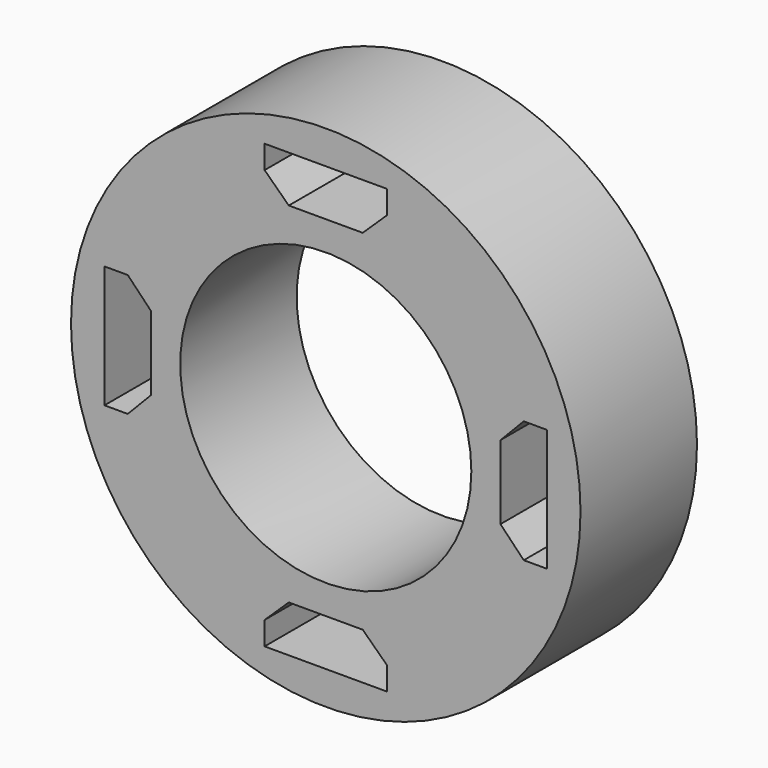
from build123d import *

# Parameters (mm, degrees)
F0_R     = 8.75
F0_R_2   = 5
F1_DEPTH = 5
F0_W     = 0.5
F0_H     = 0.45
F0_W_2   = 0.45
F0_H_2   = 0.5
F2_DEPTH = 1.5


with BuildPart() as f1:
    # F0 (on Front) → F1 (new body)
    with BuildSketch(Plane.XZ):
        Circle(F0_R)
        Polygon((-2.1, -6.8), (-1.27, -6), (1.27, -6), (2.1, -6.8), (2.1, -7.6), (-2.1, -7.6), align=None, mode=Mode.SUBTRACT)
        Polygon((-6.8, 2.1), (-6, 1.27), (-6, -1.27), (-6.8, -2.1), (-7.6, -2.1), (-7.6, 2.1), align=None, mode=Mode.SUBTRACT)
        Circle(F0_R_2, mode=Mode.SUBTRACT)
        Polygon((6.8, -2.1), (6, -1.27), (6, 1.27), (6.8, 2.1), (7.6, 2.1), (7.6, -2.1), align=None, mode=Mode.SUBTRACT)
        Polygon((-2.1, 6.8), (-2.1, 7.6), (2.1, 7.6), (2.1, 6.8), (1.27, 6), (-1.27, 6), align=None, mode=Mode.SUBTRACT)
    extrude(amount=F1_DEPTH)

    # F0 (on Front) → F2 (join)
    with BuildSketch(Plane.XZ):
        Polygon((2.1, 7.6), (-2.1, 7.6), (-2.1, 6.8), (-1.27, 6), (1.27, 6), (2.1, 6.8), align=None)
        with Locations((-1.27, 6.8)):
            Rectangle(F0_W, F0_H, mode=Mode.SUBTRACT)
        with Locations((0, 6.8)):
            Rectangle(F0_W, F0_H, mode=Mode.SUBTRACT)
        with Locations((1.27, 6.8)):
            Rectangle(F0_W, F0_H, mode=Mode.SUBTRACT)
        Polygon((-6, -1.27), (-6, 1.27), (-6.8, 2.1), (-7.6, 2.1), (-7.6, -2.1), (-6.8, -2.1), align=None)
        with Locations((-6.8, -1.27)):
            Rectangle(F0_W_2, F0_H_2, mode=Mode.SUBTRACT)
        with Locations((-6.8, 0)):
            Rectangle(F0_W_2, F0_H_2, mode=Mode.SUBTRACT)
        with Locations((-6.8, 1.27)):
            Rectangle(F0_W_2, F0_H_2, mode=Mode.SUBTRACT)
        Polygon((1.27, -6), (-1.27, -6), (-2.1, -6.8), (-2.1, -7.6), (2.1, -7.6), (2.1, -6.8), align=None)
        with Locations((-1.27, -6.8)):
            Rectangle(F0_W, F0_H, mode=Mode.SUBTRACT)
        with Locations((0, -6.8)):
            Rectangle(F0_W, F0_H, mode=Mode.SUBTRACT)
        with Locations((1.27, -6.8)):
            Rectangle(F0_W, F0_H, mode=Mode.SUBTRACT)
        Polygon((6, 1.27), (6, -1.27), (6.8, -2.1), (7.6, -2.1), (7.6, 2.1), (6.8, 2.1), align=None)
        with Locations((6.8, -1.27)):
            Rectangle(F0_W_2, F0_H_2, mode=Mode.SUBTRACT)
        with Locations((6.8, 0)):
            Rectangle(F0_W_2, F0_H_2, mode=Mode.SUBTRACT)
        with Locations((6.8, 1.27)):
            Rectangle(F0_W_2, F0_H_2, mode=Mode.SUBTRACT)
    extrude(amount=F2_DEPTH)


solid = f1.part
